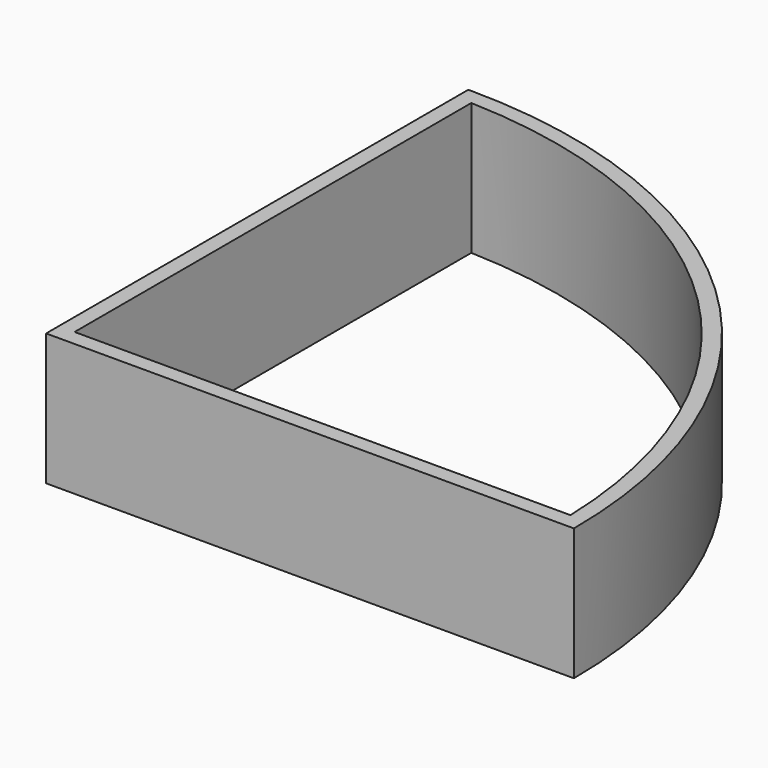
from build123d import *

# Parameters (mm, degrees)
F1_DEPTH = 25
F2_T     = -3
F3_DEPTH = 25


with BuildPart() as f1:
    # F0 (on Top) → F1 (new body)
    with BuildSketch(Plane.XY):
        with BuildLine():
            Line((0, 100), (0, 0))
            Line((0, 0), (100, 0))
            ThreePointArc((100, 0), (70.7106781187, 70.7106781187), (0, 100))
        make_face()
    extrude(amount=-F1_DEPTH)

    # F2
    f2_openings = [f1.faces().sort_by_distance(p)[0] for p in [
        (42.441318, 42.441318, 0),
    ]]
    offset(amount=F2_T, openings=f2_openings)

    # F3 (cut): a face of the model
    f3_faces = [f1.faces().sort_by_distance(p)[0] for p in [
        (42.4961878284, 42.4961878284, -22),
    ]]
    extrude(f3_faces, amount=-F3_DEPTH, mode=Mode.SUBTRACT)


solid = f1.part
